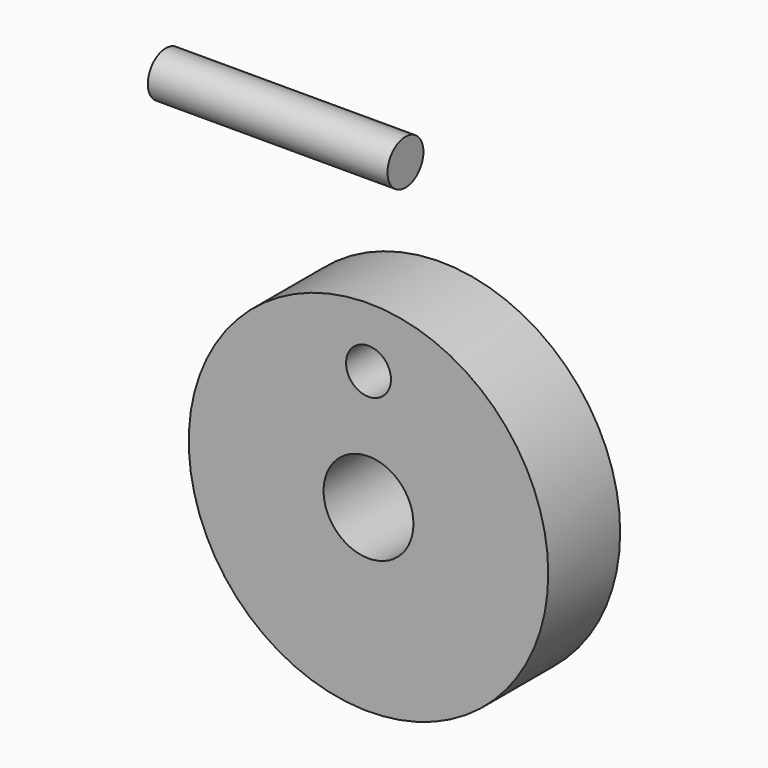
from build123d import *

# Parameters (mm, degrees)
F0_R     = 12
F0_R_2   = 3
F0_R_3   = 1.5
F1_DEPTH = 6
F0_W     = 16
F0_H     = 1.5


with BuildPart() as f1:
    # F0 (on Front) → F1 (new body)
    with BuildSketch(Plane.XZ):
        Circle(F0_R)
        Circle(F0_R_2, mode=Mode.SUBTRACT)
        with Locations((0, 8)):
            Circle(F0_R_3, mode=Mode.SUBTRACT)
    extrude(amount=F1_DEPTH)


with BuildPart() as f2:
    # F0 (on Front) → F2 (revolve)
    with BuildSketch(Plane.XZ):
        with Locations((-10.332158, 17.841373)):
            Rectangle(F0_W, F0_H)
    revolve(axis=Axis((-10.332158, 0, 17.091373), (1, 0, 0)))


solid = Compound([f1.part, f2.part])
